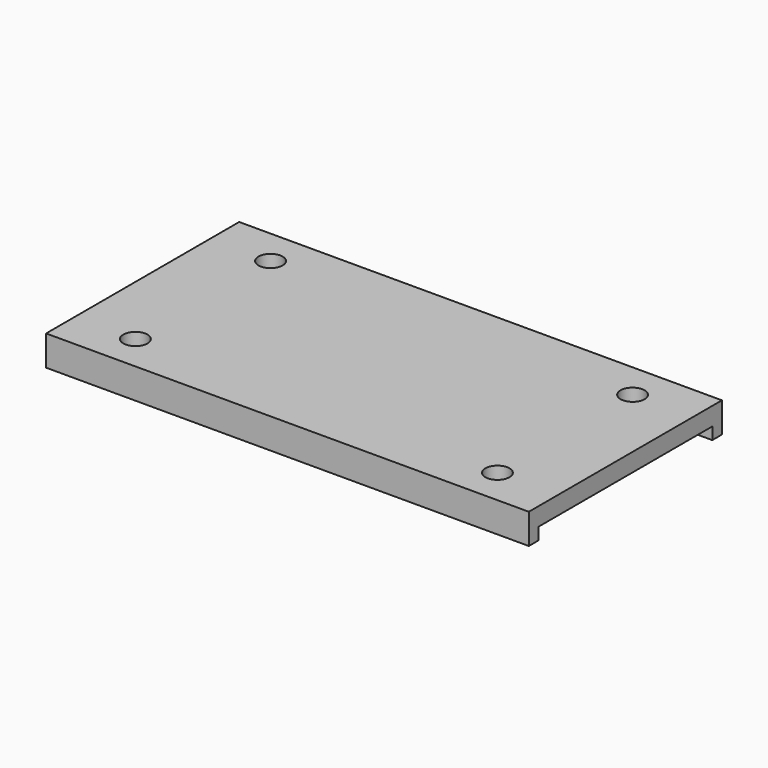
from build123d import *

# Parameters (mm, degrees)
F0_W     = 101.6
F0_H     = 50.8
F1_DEPTH = 3.81
F2_W     = 101.6
F2_H     = 2.54
F3_DEPTH = 2.54
F4_R     = 2.54
F5_DEPTH = 3.81


with BuildPart() as f1:
    # F0 (on Top) → F1 (new body)
    with BuildSketch(Plane.XY):
        with Locations((-1.324669, -1.297615)):
            Rectangle(F0_W, F0_H)
    extrude(amount=-F1_DEPTH)

    # F2 (on face) → F3 (join)
    with BuildSketch(Plane(origin=(0, 0, -3.81), x_dir=(1, 0, 0), z_dir=(0, 0, -1))):
        with Locations((-1.324669, 25.427615)):
            Rectangle(F2_W, F2_H)
        with Locations((-1.324669, -22.832385)):
            Rectangle(F2_W, F2_H)
    extrude(amount=F3_DEPTH)

    # F4 (on face) → F5 (cut)
    with BuildSketch(Plane(origin=(0, 0, -3.81), x_dir=(1, 0, 0), z_dir=(0, 0, -1))):
        with Locations((-39.424669, 19.077615)):
            Circle(F4_R)
        with Locations((-39.424669, -16.482385)):
            Circle(F4_R)
        with Locations((36.775331, 19.077615)):
            Circle(F4_R)
        with Locations((36.775331, -16.482385)):
            Circle(F4_R)
    extrude(amount=-F5_DEPTH, mode=Mode.SUBTRACT)


solid = f1.part
